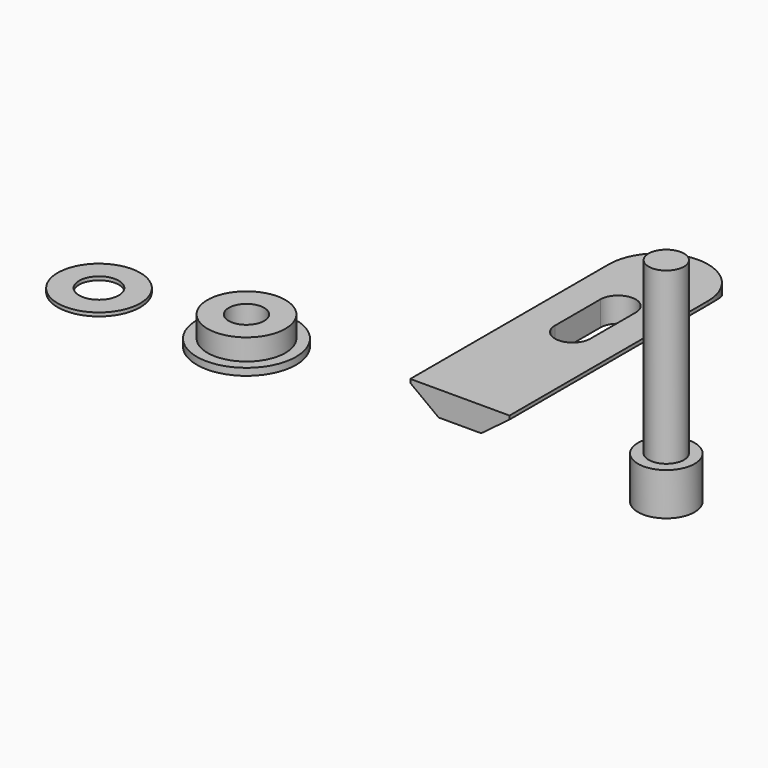
from build123d import *

# Parameters (mm, degrees)
F1_DEPTH = 3.5
F3_DEPTH = 42.001534
F0_R     = 5.5
F0_R_2   = 2.5
F4_DEPTH = 4
F0_R_3   = 7
F5_DEPTH = 1
F0_R_4   = 5.826101
F0_R_5   = 2.79872
F6_DEPTH = 0.5
F7_DEPTH = 30
F0_R_6   = 4
F8_DEPTH = 6


with BuildPart() as f1:
    # F0 (on Top) → F1 (new body)
    with BuildSketch(Plane.XY):
        with BuildLine():
            Line((-20.010204, 35.122296), (-20.010204, 0))
            Line((-20.010204, 0), (-6.010204, 0))
            Line((-6.010204, 0), (-6.010204, 35))
            ThreePointArc((-6.010204, 35), (-12.949588, 42.000267), (-20.010204, 35.122296))
        make_face()
        with BuildLine():
            Line((-15.510738, 19.882787), (-15.510738, 27.882787))
            ThreePointArc((-15.510738, 27.882787), (-13.010738, 30.382787), (-10.510738, 27.882787))
            Line((-10.510738, 27.882787), (-10.510738, 19.882787))
            ThreePointArc((-10.510738, 19.882787), (-13.010738, 17.382787), (-15.510738, 19.882787))
        make_face(mode=Mode.SUBTRACT)
    extrude(amount=F1_DEPTH)

    # F2 (on face) → F3 (cut, through all)
    with BuildSketch(Plane.XZ):
        Polygon((-16.010204, 0), (-20.010204, 3), (-20.010204, 0), align=None)
        Polygon((-6.010204, 3), (-10.010204, 0), (-6.010204, 0), align=None)
    extrude(amount=-F3_DEPTH, mode=Mode.SUBTRACT)


with BuildPart() as f4:
    # F0 (on Top) → F4 (new body)
    with BuildSketch(Plane.XY):
        with Locations((-43.122021, 0)):
            Circle(F0_R)
        with Locations((-43.122021, 0)):
            Circle(F0_R_2, mode=Mode.SUBTRACT)
    extrude(amount=F4_DEPTH)

    # F0 (on Top) → F5 (join)
    with BuildSketch(Plane.XY):
        with Locations((-43.122021, 0)):
            Circle(F0_R_3)
        with Locations((-43.122021, 0)):
            Circle(F0_R, mode=Mode.SUBTRACT)
    extrude(amount=F5_DEPTH)


with BuildPart() as f6:
    # F0 (on Top) → F6 (new body)
    with BuildSketch(Plane.XY):
        with Locations((-63.927814, 0)):
            Circle(F0_R_4)
        with Locations((-63.927814, 0)):
            Circle(F0_R_5, mode=Mode.SUBTRACT)
    extrude(amount=F6_DEPTH)


with BuildPart() as f7:
    # F0 (on Top) → F7 (new body)
    with BuildSketch(Plane.XY):
        with Locations((16.104339, 0)):
            Circle(F0_R_2)
    extrude(amount=F7_DEPTH)

    # F0 (on Top) → F8 (join)
    with BuildSketch(Plane.XY):
        with Locations((16.104339, 0)):
            Circle(F0_R_6)
        with Locations((16.104339, 0)):
            Circle(F0_R_2, mode=Mode.SUBTRACT)
    extrude(amount=F8_DEPTH)


solid = Compound([f1.part, f4.part, f6.part, f7.part])
